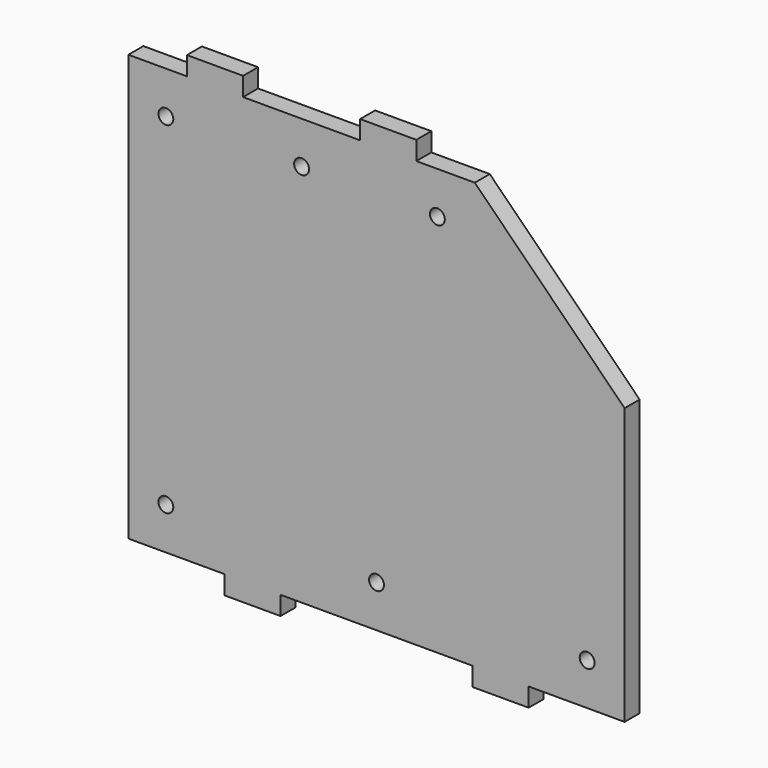
from build123d import *

# Parameters (mm, degrees)
F1_DEPTH = 12.7
F2_D     = 10.0838
F3_W     = 38.1
F3_H     = 12.7
F4_DEPTH = 12.7


with BuildPart() as f1:
    # F0 (on Front) → F1 (new body)
    with BuildSketch(Plane.XZ):
        Polygon((0, 288.925), (0, 0), (336.55, 0), (336.55, 187.325), (234.95, 288.925), align=None)
    extrude(amount=F1_DEPTH)

    # F2 (through all)
    with Locations(Plane(origin=(0, 0, 0), x_dir=(1, 0, 0), z_dir=(0, 1, 0))):
        with Locations((311.15, -28.575), (168.275, -28.575), (25.4, -28.575), (25.4, -260.35), (209.55, -260.35), (117.475, -260.35)):
            Hole(F2_D / 2)

    # F3 (on face) → F4 (join)
    with BuildSketch(Plane.XZ.offset(12.7)):
        with Locations((58.7375, 295.275)):
            Rectangle(F3_W, F3_H)
        with Locations((176.2125, 295.275)):
            Rectangle(F3_W, F3_H)
        with Locations((84.1375, -6.35)):
            Rectangle(F3_W, F3_H)
        with Locations((252.4125, -6.35)):
            Rectangle(F3_W, F3_H)
    extrude(amount=-F4_DEPTH)


solid = f1.part
